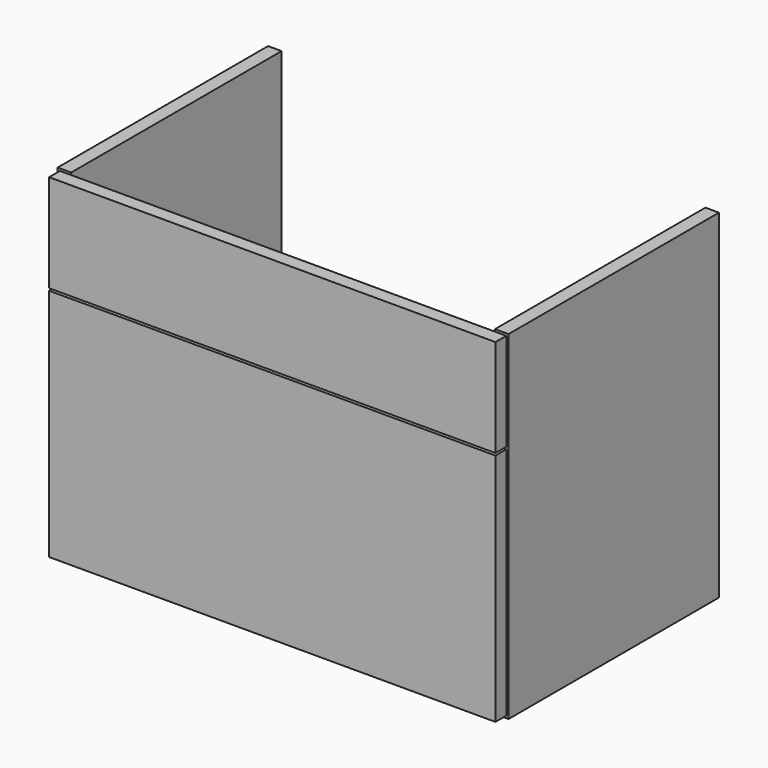
from build123d import *

# Parameters (mm, degrees)
F0_W     = 15
F0_H     = 130
F1_DEPTH = 350
F0_W_2   = 564
F0_H_2   = 3
F0_H_3   = 15
F2_DEPTH = 345
F3_W     = 564
F3_H     = 130
F4_DEPTH = 18
F0_H_4   = 162
F0_H_5   = 5
F5_DEPTH = 18


with BuildPart() as f1:
    # F0 (on Front) → F1 (new body)
    with BuildSketch(Plane.XZ):
        with Locations((-289.5, 157.5)):
            Rectangle(F0_W, F0_H)
        Polygon((-297, -222.5), (-282, -222.5), (-282, -207.5), (-282, -202.5), (-282, -72.5), (-282, 89.5), (-297, 89.5), align=None)
        Polygon((-282, 222.5), (-282, 225.5), (-300, 225.5), (-300, -225.5), (-282, -225.5), (-282, -222.5), (-297, -222.5), (-297, 89.5), (-282, 89.5), (-282, 92.5), (-297, 92.5), (-297, 222.5), align=None)
    extrude(amount=-F1_DEPTH)


with BuildPart() as f1b:
    # F0 (on Front) → F1, piece 2 (new body)
    with BuildSketch(Plane.XZ):
        Polygon((300, -225.5), (300, 225.5), (282, 225.5), (282, 222.5), (297, 222.5), (297, 92.5), (282, 92.5), (282, 89.5), (297, 89.5), (297, -222.5), (282, -222.5), (282, -225.5), align=None)
        with Locations((289.5, 157.5)):
            Rectangle(F0_W, F0_H)
        Polygon((282, -207.5), (282, -222.5), (297, -222.5), (297, 89.5), (282, 89.5), (282, -72.5), (282, -202.5), align=None)
    extrude(amount=-F1_DEPTH)


with BuildPart() as f2:
    # F0 (on Front) → F2 (new body)
    with BuildSketch(Plane.XZ):
        with Locations((0, -224)):
            Rectangle(F0_W_2, F0_H_2)
        with Locations((0, -215)):
            Rectangle(F0_W_2, F0_H_3)
    extrude(amount=-F2_DEPTH)


with BuildPart() as f4:
    # F3 (on face) → F4 (new body)
    with BuildSketch(Plane(origin=(0, 345, 0), x_dir=(-1, 0, 0), z_dir=(0, 1, 0))):
        with Locations((0, -137.5)):
            Rectangle(F3_W, F3_H)
    extrude(amount=-F4_DEPTH)


with BuildPart() as f5:
    # F0 (on Front) → F5 (new body)
    with BuildSketch(Plane.XZ):
        Polygon((-297, -222.5), (-282, -222.5), (-282, -207.5), (-282, -202.5), (-282, -72.5), (-282, 89.5), (-297, 89.5), align=None)
        with Locations((0, 8.5)):
            Rectangle(F0_W_2, F0_H_4)
        Polygon((282, -207.5), (282, -222.5), (297, -222.5), (297, 89.5), (282, 89.5), (282, -72.5), (282, -202.5), align=None)
        with Locations((0, -137.5)):
            Rectangle(F0_W_2, F0_H)
        with Locations((0, -205)):
            Rectangle(F0_W_2, F0_H_5)
        with Locations((0, -215)):
            Rectangle(F0_W_2, F0_H_3)
    extrude(amount=F5_DEPTH)


with BuildPart() as f5b:
    # F0 (on Front) → F5, piece 2 (new body)
    with BuildSketch(Plane.XZ):
        with Locations((0, 157.5)):
            Rectangle(F0_W_2, F0_H)
        with Locations((-289.5, 157.5)):
            Rectangle(F0_W, F0_H)
        with Locations((289.5, 157.5)):
            Rectangle(F0_W, F0_H)
    extrude(amount=F5_DEPTH)


solid = Compound([f1.part, f1b.part, f2.part, f4.part, f5.part, f5b.part])
